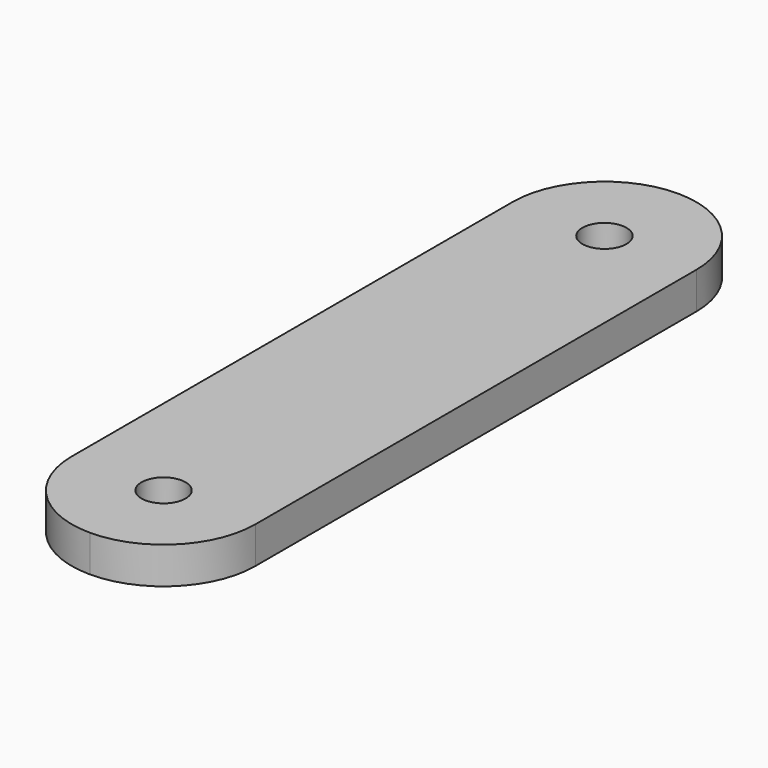
from build123d import *

# Parameters (mm, degrees)
F0_R     = 1.524
F1_DEPTH = 2.54


with BuildPart() as f1:
    # F0 (on Top) → F1 (new body)
    with BuildSketch(Plane.XY):
        with BuildLine():
            Line((6.35, -19.05), (6.35, 19.05))
            ThreePointArc((6.35, 19.05), (4.490128, 23.540128), (0, 25.4))
            ThreePointArc((0, 25.4), (-4.490128, 23.540128), (-6.35, 19.05))
            Line((-6.35, 19.05), (-6.35, -19.05))
            ThreePointArc((-6.35, -19.05), (-4.490128, -23.540128), (0, -25.4))
            ThreePointArc((0, -25.4), (4.490128, -23.540128), (6.35, -19.05))
        make_face()
        with Locations((0, -19.05)):
            Circle(F0_R, mode=Mode.SUBTRACT)
        with Locations((0, 19.05)):
            Circle(F0_R, mode=Mode.SUBTRACT)
    extrude(amount=F1_DEPTH)


solid = f1.part
